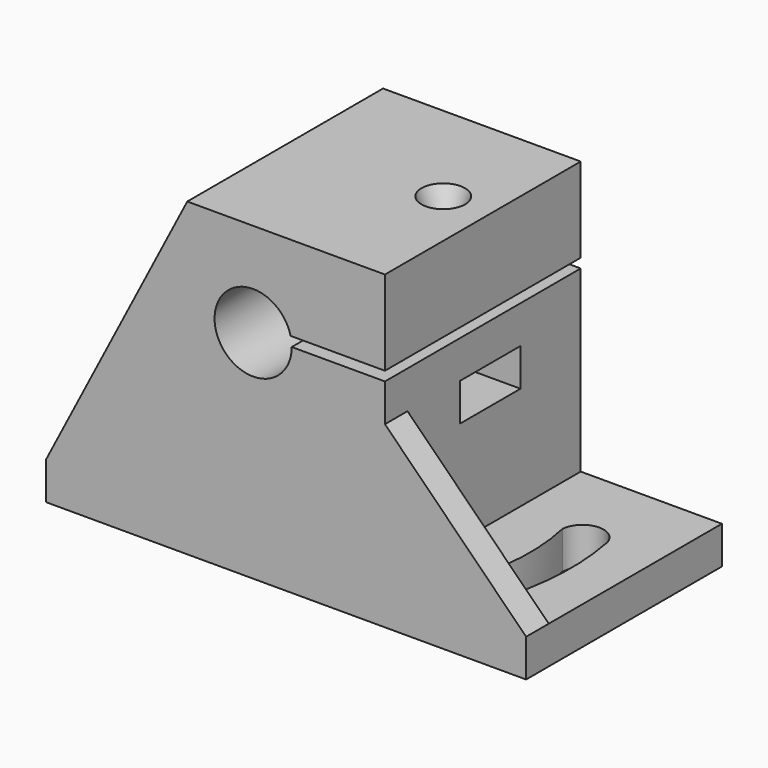
from build123d import *

# Parameters (mm, degrees)
CYLINDER072_R              = 6
CYLINDER072_DEPTH          = 30
CYLINDER071_R              = 2.1
CYLINDER071_DEPTH          = 10
CYLINDER074_R              = 1.6
CYLINDER074_DEPTH          = 15
CYLINDER075_R              = 4
CYLINDER075_DEPTH          = 4
BOX025_W                   = 13
BOX025_H                   = 8
BOX025_DEPTH               = 4
EXTRUDE005_DEPTH           = 3
EXTRUDE005_PLACEMENT_ANGLE = 180
EXTRUDE018_DEPTH           = 10
BOX023_W                   = 51
BOX023_H                   = 26
BOX023_DEPTH               = 4
EXTRUDE017_DEPTH           = 26
CYLINDER073_R              = 4.1
CYLINDER073_DEPTH          = 240
BOX024_W                   = 12
BOX024_H                   = 35
BOX024_DEPTH               = 1
BOX022_W                   = 21
BOX022_H                   = 26
BOX022_DEPTH               = 33


with BuildPart() as cylinder072:
    # Cylinder072 → Cylinder072 (new body)
    with BuildSketch(Plane.XY.offset(10)):
        Circle(CYLINDER072_R)
    extrude(amount=CYLINDER072_DEPTH)


with BuildPart() as fusion032:
    # Cylinder071 → Cylinder071 (new body)
    with BuildSketch(Plane.XY):
        Circle(CYLINDER071_R)
    extrude(amount=CYLINDER071_DEPTH)

    # Fusion032: union Cylinder072
    add(cylinder072.part)


with BuildPart() as fusion032_1:
    # Fusion032 placement: moved
    add(fusion032.part.moved(Location((-14, 12, -29))))


with BuildPart() as cylinder074:
    # Cylinder074 → Cylinder074 (new body)
    with BuildSketch(Plane.XY):
        Circle(CYLINDER074_R)
    extrude(amount=CYLINDER074_DEPTH)


with BuildPart() as fusion009:
    # Cone → Cone (revolve)
    with BuildSketch(Plane(origin=(0, 0, 15), x_dir=(1, 0, 0), z_dir=(0, -1, 0))):
        Polygon((0, 0), (1.6, 0), (2.5, 2.5), (0, 2.5), align=None)
    revolve(axis=Axis((0, 0, 15), (0, 0, 1)))

    # Fusion009: union Cylinder074
    add(cylinder074.part)


with BuildPart() as fusion009_1:
    # Fusion009 placement: moved
    add(fusion009.part.moved(Location((9, 11, -7))))


with BuildPart() as cylinder075:
    # Cylinder075 → Cylinder075 (new body)
    with BuildSketch(Plane(origin=(9, 11, -8), x_dir=(1, 0, 0), z_dir=(0, 0, 1))):
        Circle(CYLINDER075_R)
    extrude(amount=CYLINDER075_DEPTH)


with BuildPart() as fusion010:
    # Box025 → Box025 (new body)
    with BuildSketch(Plane(origin=(9, 7, -8), x_dir=(1, 0, 0), z_dir=(0, 0, 1))):
        with Locations((6.5, 4)):
            Rectangle(BOX025_W, BOX025_H)
    extrude(amount=BOX025_DEPTH)

    # Fusion010: union Cylinder075
    add(cylinder075.part)


with BuildPart() as extrude005:
    # Sketch004 → Extrude005 (new body)
    with BuildSketch(Plane.XZ):
        Polygon((-22, -19), (-7, -19), (-7, -4), align=None)
    extrude(amount=-EXTRUDE005_DEPTH)


with BuildPart() as extrude005_1:
    # Extrude005 placement: moved
    add(extrude005.part.moved(Location((7, 0, 0))).rotate(Axis((7, 0, 0), (0, 0, 1)), EXTRUDE005_PLACEMENT_ANGLE))


with BuildPart() as extrude018:
    # Sketch003 → Extrude018 (new body)
    with BuildSketch(Plane.XY):
        with BuildLine():
            ThreePointArc((35.736492, 10), (36.2, 15), (35.736492, 20))
            ThreePointArc((35.736492, 20), (33.490746, 22.111711), (31.244999, 20))
            ThreePointArc((31.244999, 10), (31.8, 15), (31.244999, 20))
            ThreePointArc((31.244999, 10), (33.490746, 7.888289), (35.736492, 10))
        make_face()
    extrude(amount=-EXTRUDE018_DEPTH)


with BuildPart() as extrude018_1:
    # Extrude018 placement: moved
    add(extrude018.part.moved(Location((-12, -3, -17))))


with BuildPart() as cut017:
    # Box023 → Box023 (new body)
    with BuildSketch(Plane(origin=(-22, 0, -23), x_dir=(1, 0, 0), z_dir=(0, 0, 1))):
        with Locations((25.5, 13)):
            Rectangle(BOX023_W, BOX023_H)
    extrude(amount=BOX023_DEPTH)

    # Cut017: cut Extrude018
    add(extrude018_1.part, mode=Mode.SUBTRACT)


with BuildPart() as cut017_1:
    # Cut017 placement: moved
    add(cut017.part.moved(Location((0, -3, 0))))


with BuildPart() as extrude017:
    # Sketch016 → Extrude017 (new body)
    with BuildSketch(Plane.XZ):
        Polygon((-22, -19), (-7, -19), (-7, 10), align=None)
    extrude(amount=-EXTRUDE017_DEPTH)


with BuildPart() as extrude017_1:
    # Extrude017 placement: moved
    add(extrude017.part.moved(Location((0, -3, 0))))


with BuildPart() as cylinder073:
    # Cylinder073 → Cylinder073 (new body)
    with BuildSketch(Plane(origin=(0, -7, 0), x_dir=(1, 0, 0), z_dir=(0, 1, 0))):
        Circle(CYLINDER073_R)
    extrude(amount=CYLINDER073_DEPTH)


with BuildPart() as box024:
    # Box024 → Box024 (new body)
    with BuildSketch(Plane(origin=(3, -6, 0), x_dir=(1, 0, 0), z_dir=(0, 0, 1))):
        with Locations((6, 17.5)):
            Rectangle(BOX024_W, BOX024_H)
    extrude(amount=BOX024_DEPTH)


with BuildPart() as cut022:
    # Box022 → Box022 (new body)
    with BuildSketch(Plane(origin=(-7, -3, -23), x_dir=(1, 0, 0), z_dir=(0, 0, 1))):
        with Locations((10.5, 13)):
            Rectangle(BOX022_W, BOX022_H)
    extrude(amount=BOX022_DEPTH)

    # Cut018: cut Box024
    add(box024.part, mode=Mode.SUBTRACT)

    # Cut019: cut Cylinder073
    add(cylinder073.part, mode=Mode.SUBTRACT)

    # Fusion031: union Cut017, Extrude017
    add(cut017_1.part)
    add(extrude017_1.part)

    # Fusion011: union Extrude005
    add(extrude005_1.part)

    # Cut020: cut Fusion010
    add(fusion010.part, mode=Mode.SUBTRACT)

    # Cut021: cut Fusion009
    add(fusion009_1.part, mode=Mode.SUBTRACT)

    # Cut022: cut Fusion032
    add(fusion032_1.part, mode=Mode.SUBTRACT)


with BuildPart() as cut022_1:
    # Cut022 placement: moved
    add(cut022.part.moved(Location((0, -9, 0))))


solid = cut022_1.part
